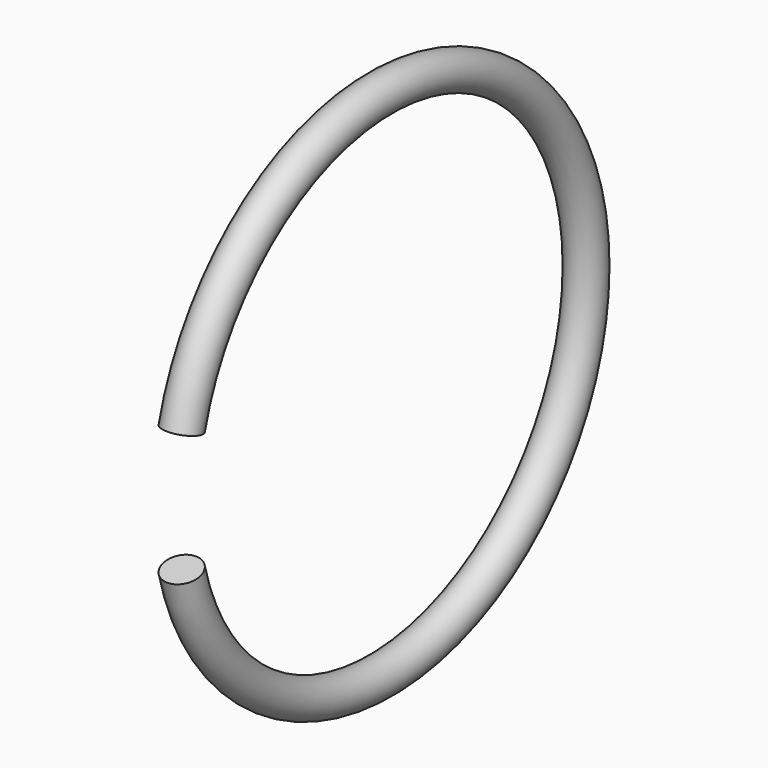
from build123d import *

# Parameters (mm, degrees)
F0_R          = 0.5
F1_ANGLE_BACK = 166
F1_ANGLE      = 332


with BuildPart() as f1:
    # F0 (on Top) → F1 (revolve)
    with BuildSketch(Plane.XY, mode=Mode.PRIVATE) as f1_sk:
        with Locations((0, 7)):
            Circle(F0_R)
    revolve(f1_sk.sketch.rotate(Axis((-0.5296617976, 0, 0), (-1, 0, 0)), -F1_ANGLE_BACK), axis=Axis((-0.5296617976, 0, 0), (-1, 0, 0)), revolution_arc=F1_ANGLE)


solid = f1.part
